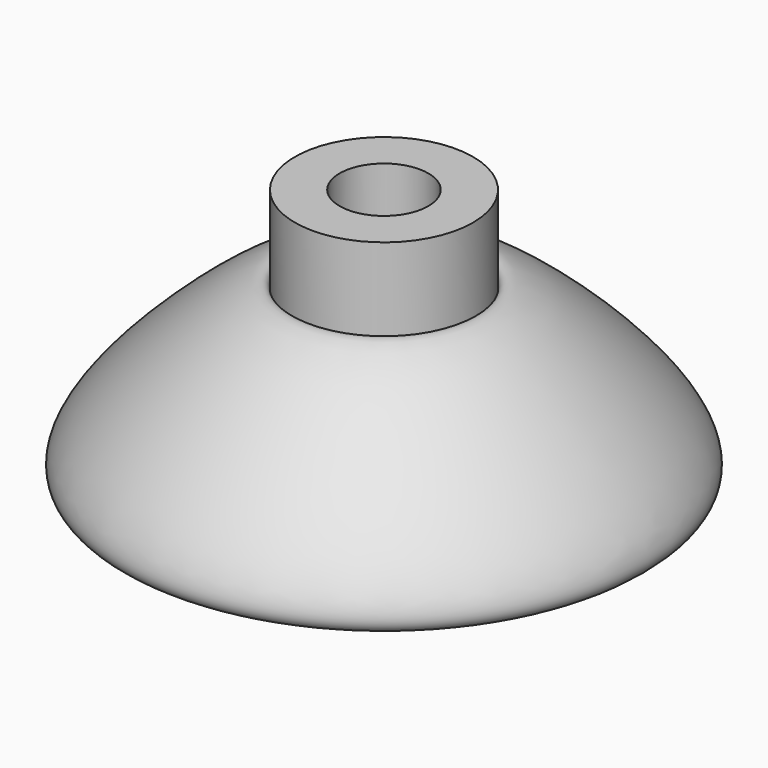
from build123d import *

# Parameters (mm, degrees)
F2_R     = 5.0607119935
F3_DEPTH = 9.525
F4_R     = 1.6129
F5_DEPTH = 12.7


with BuildPart() as f1:
    # F0 (on Front) → F1 (revolve)
    with BuildSketch(Plane.XZ):
        with BuildLine():
            Line((0, 0), (5.08, 0))
            Line((5.08, 0), (9.7455104539, 5.4705391193))
            add(Edge.make_bspline(
                [(9.7455104539, 5.4705391193), (12.4344353671, 5.4705391193), (8.9021351307, 6.2337205754), (36.8213295394, -2.073424816), (23.6726198622, 15.5062359104), (10.16, 25.1128395454), (10.16, 21.811403902)],
                knots=[0, 0, 0, 0, 0.1140565874, 0.4307447791, 0.7154711829, 1, 1, 1, 1], degree=3))
            Line((10.16, 21.811403902), (10.16, 25.1128395454))
            Line((10.16, 25.1128395454), (10.16, 31.971403902))
            Line((10.16, 31.971403902), (0, 31.971403902))
            Line((0, 31.971403902), (0, 0))
        make_face()
    revolve(axis=Axis((0, 0, 15.985701951), (0, 0, -1)))

    # F2 (on face) → F3 (cut)
    with BuildSketch(Plane.XY.offset(31.971403902)):
        Circle(F2_R)
    extrude(amount=-F3_DEPTH, mode=Mode.SUBTRACT)

    # F4 (on face) → F5 (cut)
    with BuildSketch(Plane(origin=(0, 0, 0), x_dir=(1, 0, 0), z_dir=(0, 0, -1))):
        Circle(F4_R)
    extrude(amount=-F5_DEPTH, mode=Mode.SUBTRACT)


solid = f1.part
